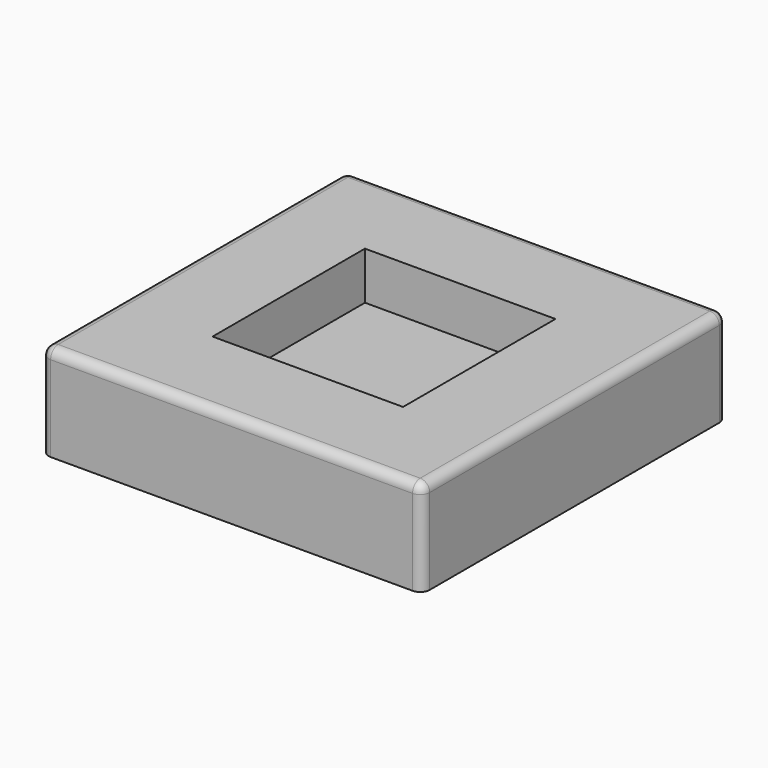
from build123d import *

# Parameters (mm, degrees)
F0_W     = 29.21
F0_H     = 29.972
F1_DEPTH = 6.35
F2_W     = 50.8
F2_H     = 50.8
F3_DEPTH = 12.7
F4_W     = 25.4
F4_H     = 25.4
F5_DEPTH = 6.35
F6_R     = 1.27


with BuildPart() as f1:
    # F0 (on Top) → F1 (new body)
    with BuildSketch(Plane.XY):
        Rectangle(F0_W, F0_H)
    extrude(amount=F1_DEPTH)

    # F2 (on face) → F3 (join)
    with BuildSketch(Plane.XY.offset(6.35)):
        Rectangle(F2_W, F2_H)
    extrude(amount=F3_DEPTH)

    # F4 (on face) → F5 (cut)
    with BuildSketch(Plane.XY.offset(19.05)):
        Rectangle(F4_W, F4_H)
    extrude(amount=-F5_DEPTH, mode=Mode.SUBTRACT)

    # F6
    f6_edges = [f1.edges().sort_by_distance(p)[0] for p in [
        (-25.4, -25.4, 12.7),
        (25.4, -25.4, 12.7),
        (25.4, 25.4, 12.7),
        (-25.4, 25.4, 12.7),
        (0, -25.4, 19.05),
        (-25.4, 0, 19.05),
        (0, 25.4, 19.05),
        (25.4, 0, 19.05),
    ]]
    fillet(f6_edges, radius=F6_R)


solid = f1.part
